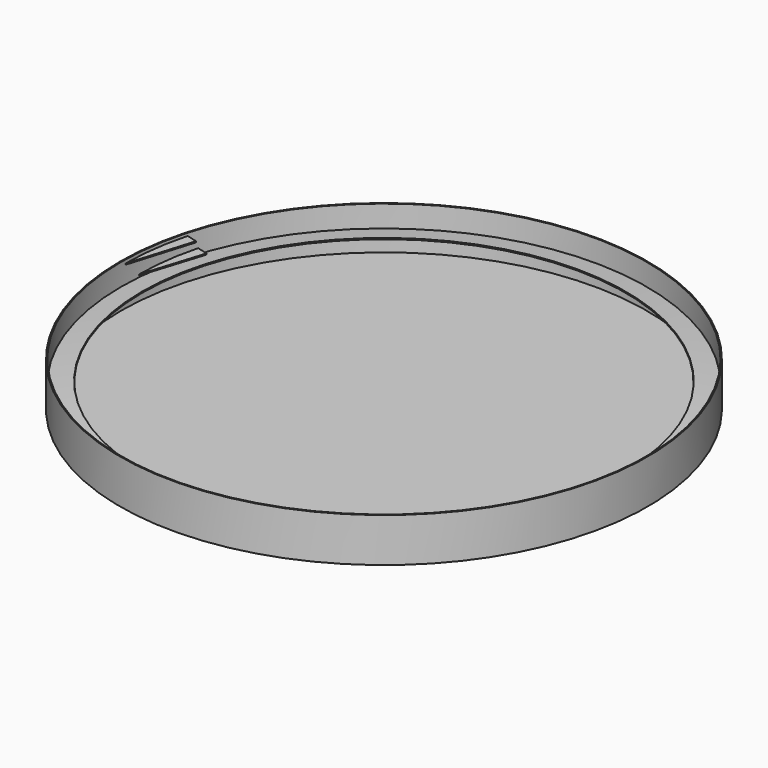
from build123d import *

# Parameters (mm, degrees)
F3_W     = 12.7
F3_H     = 1.27
F4_ANGLE = 15
F7_DEPTH = 1.27
F8_DEPTH = 1.27


with BuildPart() as f2:
    # F0 (on Front) → F2 (revolve)
    with BuildSketch(Plane.XZ):
        Polygon((-304.8, 22.281272), (-304.8, -3.118728), (-304.8, -28.518728), (0, -28.518728), (0, -27.248728), (-303.53, -27.248728), (-303.53, -4.242329), (-279.245226, -1.260534), (-279.4, 0), (-303.53, -2.962791), (-303.53, 22.281272), align=None)
    revolve(axis=Axis((0, 0, -10.939999), (0, 0, -1)))


with BuildPart() as f4:
    # F3 (on Front) → F4 (revolve)
    with BuildSketch(Plane.XZ):
        with Locations((-276.279379, 15.875)):
            Rectangle(F3_W, F3_H)
        with Locations((-292.282711, 21.582052)):
            Rectangle(F3_W, F3_H)
    revolve(axis=Axis((0, 0, -10.939999), (0, 0, -1)), revolution_arc=F4_ANGLE)

    # F5 (on face) → F7 (cut, through all)
    with BuildSketch(Plane.XY.offset(22.217052)):
        Polygon((-276.18979, 74.004831), (-298.632711, 0), (-285.932711, 0), align=None)
    extrude(amount=-F7_DEPTH, mode=Mode.SUBTRACT)

    # F6 (on face) → F8 (cut, through all)
    with BuildSketch(Plane.XY.offset(16.51)):
        Polygon((-260.731759, 69.862864), (-282.629379, 0), (-269.929379, 0), align=None)
    extrude(amount=-F8_DEPTH, mode=Mode.SUBTRACT)


solid = Compound([f2.part, f4.part])
